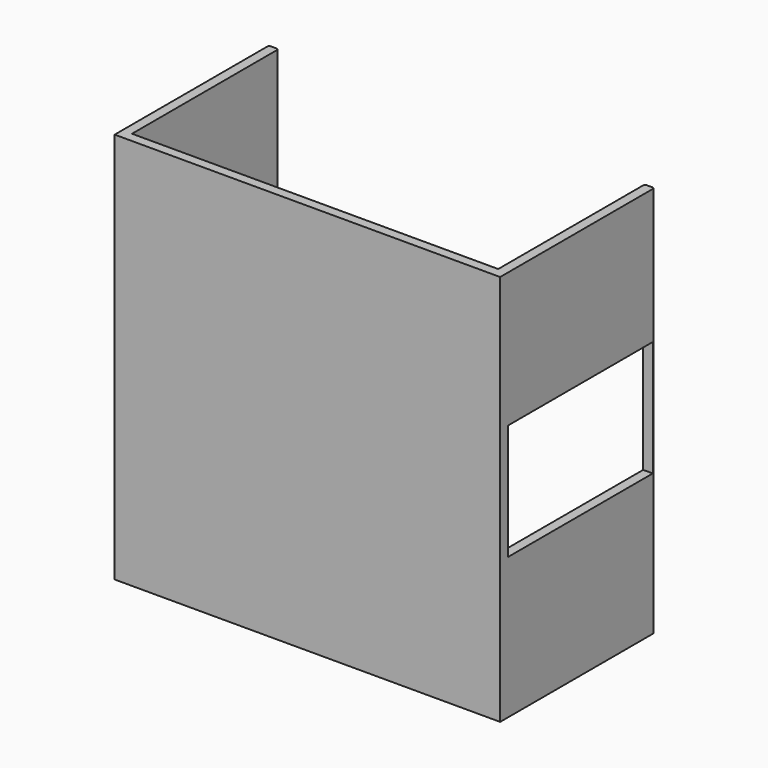
from build123d import *

# Parameters (mm, degrees)
F1_DEPTH = 203.2
F2_R     = 1
F3_W     = 94
F3_H     = 60.048782
F4_DEPTH = 300


with BuildPart() as f1:
    # F0 (on Top) → F1 (new body)
    with BuildSketch(Plane.XY):
        Polygon((-68.026056, 0), (-258.026056, 0), (-258.026056, 95), (-263.026056, 95), (-263.026056, -5), (-63.026056, -5), (-63.026056, 95), (-68.026056, 95), align=None)
    extrude(amount=F1_DEPTH)

    # F2
    f2_edges = [f1.edges().sort_by_distance(p)[0] for p in [
        (-63.026056, 95, 101.6),
        (-68.026056, 95, 101.6),
        (-258.026056, 95, 101.6),
        (-263.026056, 95, 101.6),
    ]]
    fillet(f2_edges, radius=F2_R)

    # F3 (on face) → F4 (cut)
    with BuildSketch(Plane.YZ.offset(-63.026056)):
        with Locations((47, 103.279952)):
            Rectangle(F3_W, F3_H)
    extrude(amount=-F4_DEPTH, mode=Mode.SUBTRACT)


solid = f1.part
